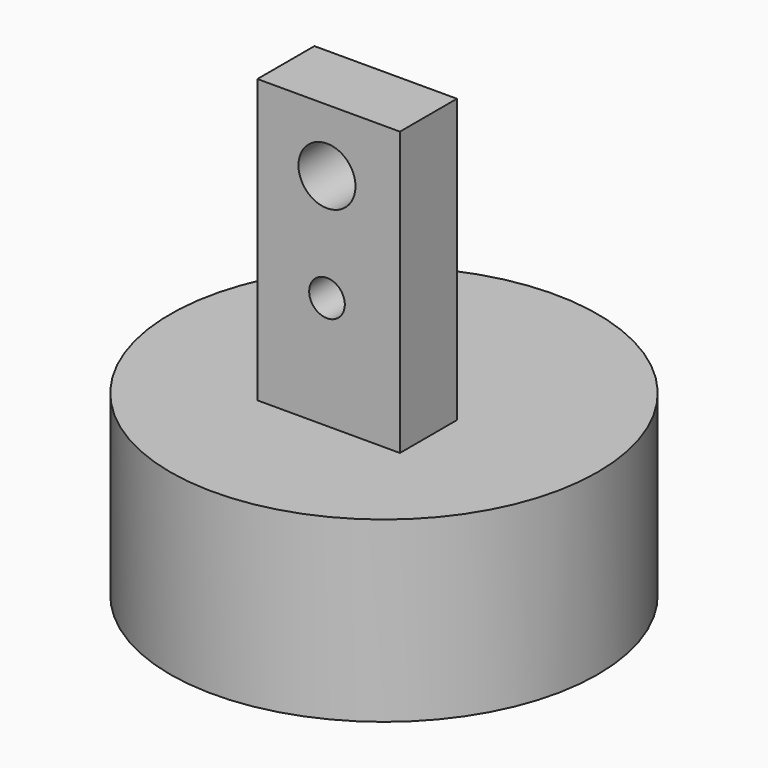
from build123d import *

# Parameters (mm, degrees)
F0_R     = 30
F1_DEPTH = 25
F2_W     = 20
F2_H     = 10
F3_DEPTH = 39.7
F4_R     = 4
F5_DEPTH = 41.2
F7_D     = 5


with BuildPart() as f1:
    # F0 (on Top) → F1 (new body)
    with BuildSketch(Plane.XY):
        Circle(F0_R)
    extrude(amount=F1_DEPTH)

    # F2 (on face) → F3 (join)
    with BuildSketch(Plane.XY.offset(25)):
        with Locations((0.236175, -5)):
            Rectangle(F2_W, F2_H)
    extrude(amount=F3_DEPTH)

    # F4 (on face) → F5 (cut)
    with BuildSketch(Plane(origin=(0, 0, 0), x_dir=(-1, 0, 0), z_dir=(0, 1, 0))):
        with Locations((0, 55.906373)):
            Circle(F4_R)
    extrude(amount=-F5_DEPTH, mode=Mode.SUBTRACT)

    # F7 (through all)
    with Locations(Plane.XZ.offset(10)):
        with Locations((0, 40.813621)):
            Hole(F7_D / 2)


solid = f1.part
